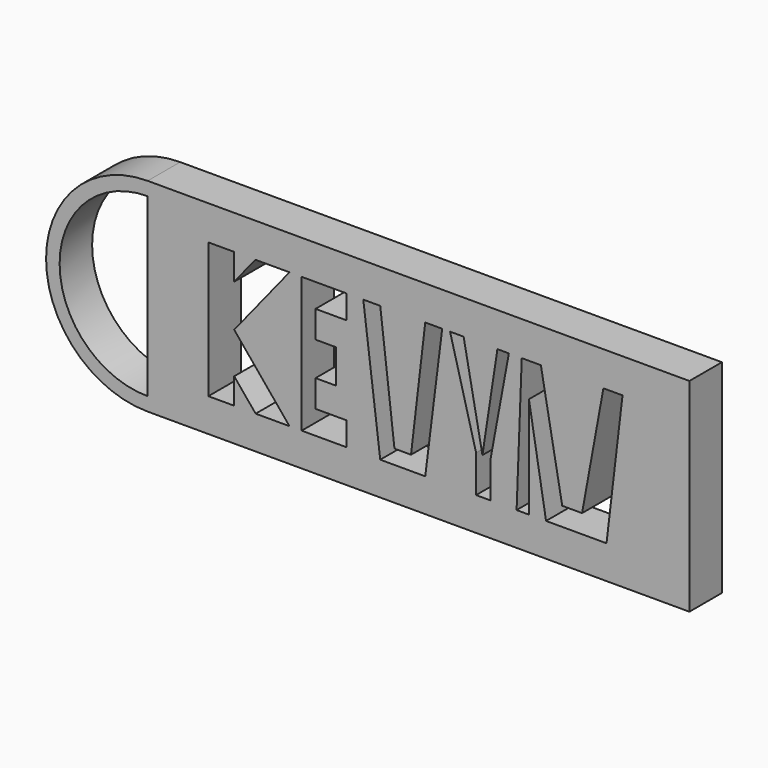
from build123d import *

# Parameters (mm, degrees)
F0_W     = 3.076698
F0_H     = 25.4
F1_DEPTH = 7.62


with BuildPart() as f1:
    # F0 (on Front) → F1 (new body)
    with BuildSketch(Plane.XZ):
        Polygon((-95.813048, -7.556471), (5.786952, -7.556471), (5.786952, 30.543529), (-95.813048, 30.543529), (-95.813048, 28.003529), (-95.813048, -5.016471), align=None)
        Polygon((0, 24.090268), (0, -1.309732), (-9.761708, -1.309732), (-21.099751, -1.309732), (-24.306639, -1.309732), (-26.623411, -1.309732), (-31.482368, -1.309732), (-34.221592, -1.309732), (-43.756157, -1.309732), (-52.194167, -1.309732), (-58.552581, -1.309732), (-66.933478, -1.309732), (-69.221007, -1.309732), (-75.5605, -1.309732), (-79.581675, -1.309732), (-84.435616, -1.309732), (-87.512314, -1.309732), (-87.512314, 24.090268), (-84.435616, 24.090268), (-79.581675, 24.090268), (-75.618793, 24.090268), (-69.221007, 24.090268), (-66.933478, 24.090268), (-58.552581, 24.090268), (-55.37475, 24.090268), (-52.194167, 24.090268), (-43.756157, 24.090268), (-40.575574, 24.090268), (-39.09912, 24.090268), (-36.55912, 24.090268), (-30.222298, 24.090268), (-28.072188, 24.090268), (-25.654349, 24.090268), (-22.068813, 24.090268), (-10.343147, 24.090268), (-6.757611, 24.090268), align=None, mode=Mode.SUBTRACT)
        Polygon((-9.761708, -1.309732), (0, -1.309732), (0, 24.090268), (-6.757611, 24.090268), align=None)
        Polygon((-14.345103, 2.178263), (-10.343147, 24.090268), (-22.068813, 24.090268), (-18.066858, 2.178263), align=None)
        Polygon((-24.306639, -1.309732), (-21.099751, -1.309732), (-24.306639, 17.745231), align=None)
        Polygon((-31.482368, -1.309732), (-26.623411, -1.309732), (-25.654349, 24.090268), (-28.072188, 24.090268), (-31.482368, 5.675268), align=None)
        Polygon((-43.756157, -1.309732), (-34.221592, -1.309732), (-34.221592, 5.675268), (-39.09912, 24.090268), (-40.575574, 24.090268), align=None)
        Polygon((-33.0313, 5.675268), (-30.222298, 24.090268), (-36.55912, 24.090268), align=None)
        Polygon((-46.425042, 1.386598), (-43.756157, 24.090268), (-52.194167, 24.090268), (-49.525282, 1.386598), align=None)
        Polygon((-58.552581, -1.309732), (-52.194167, -1.309732), (-55.37475, 24.090268), (-58.552581, 24.090268), (-58.552581, 19.645268), (-64.332509, 19.645268), (-64.332509, 14.565268), (-60.522509, 14.565268), (-60.522509, 8.215268), (-64.332509, 8.215268), (-64.332509, 3.135268), (-58.552581, 3.135268), align=None)
        Polygon((-69.221007, -1.309732), (-66.933478, -1.309732), (-66.933478, 24.090268), (-69.221007, 24.090268), (-79.581675, 11.235827), align=None)
        with Locations((-85.973965, 11.390268)):
            Rectangle(F0_W, F0_H)
        Polygon((-79.581675, 19.173535), (-75.618793, 24.090268), (-79.581675, 24.090268), align=None)
        Polygon((-79.581675, -1.309732), (-75.5605, -1.309732), (-79.581675, 3.559441), align=None)
        with BuildLine():
            ThreePointArc((-95.813048, 30.543529), (-114.863048, 11.493529), (-95.813048, -7.556471))
            Line((-95.813048, -7.556471), (-95.813048, -5.016471))
            ThreePointArc((-95.813048, -5.016471), (-112.323048, 11.493529), (-95.813048, 28.003529))
            Line((-95.813048, 28.003529), (-95.813048, 30.543529))
        make_face()
    extrude(amount=F1_DEPTH)


solid = f1.part
